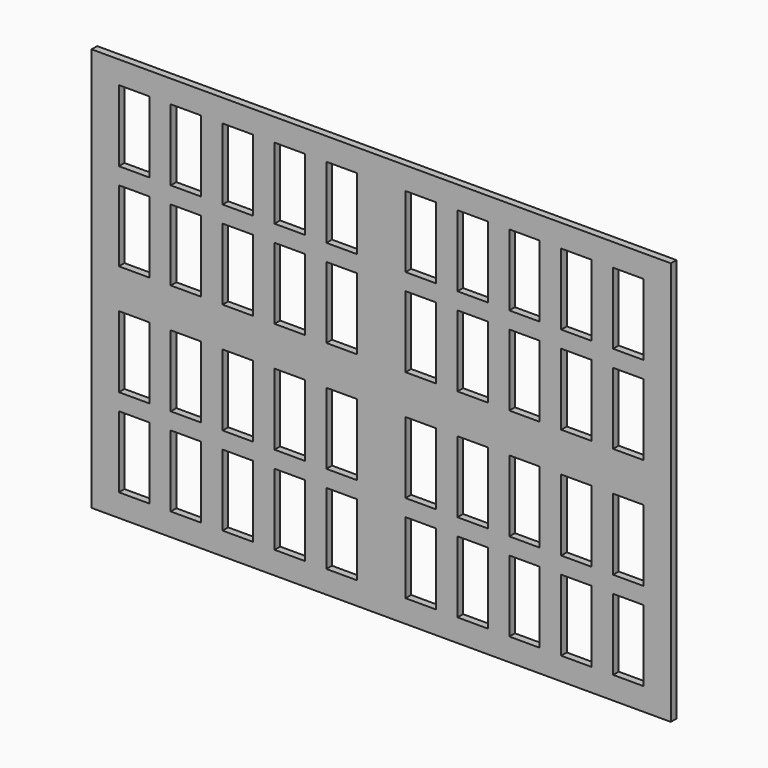
from build123d import *

# Parameters (mm, degrees)
F0_W     = 26
F0_H     = 61
F1_DEPTH = 6


with BuildPart() as f1:
    # F0 (on Front) → F1 (new body)
    with BuildSketch(Plane.XZ):
        Polygon((-231.5, -176.5), (223.5, -176.5), (243.5, -176.5), (243.5, -156.5), (243.5, 148.5), (243.5, 168.5), (227.5, 168.5), (-227.5, 168.5), (-251.5, 168.5), (-251.5, 152.5), (-251.5, -152.5), (-251.5, -176.5), align=None)
        with Locations((-215.17, -126.66)):
            Rectangle(F0_W, F0_H, mode=Mode.SUBTRACT)
        with Locations((-170.84, -126.66)):
            Rectangle(F0_W, F0_H, mode=Mode.SUBTRACT)
        with Locations((-126.51, -126.66)):
            Rectangle(F0_W, F0_H, mode=Mode.SUBTRACT)
        with Locations((-82.18, -126.66)):
            Rectangle(F0_W, F0_H, mode=Mode.SUBTRACT)
        with Locations((-37.85, -126.66)):
            Rectangle(F0_W, F0_H, mode=Mode.SUBTRACT)
        with Locations((-215.17, -51.33)):
            Rectangle(F0_W, F0_H, mode=Mode.SUBTRACT)
        with Locations((-170.84, -51.33)):
            Rectangle(F0_W, F0_H, mode=Mode.SUBTRACT)
        with Locations((-126.51, -51.33)):
            Rectangle(F0_W, F0_H, mode=Mode.SUBTRACT)
        with Locations((-82.18, -51.33)):
            Rectangle(F0_W, F0_H, mode=Mode.SUBTRACT)
        with Locations((-37.85, -51.33)):
            Rectangle(F0_W, F0_H, mode=Mode.SUBTRACT)
        with Locations((29.83, -126.66)):
            Rectangle(F0_W, F0_H, mode=Mode.SUBTRACT)
        with Locations((74.16, -126.66)):
            Rectangle(F0_W, F0_H, mode=Mode.SUBTRACT)
        with Locations((118.49, -126.66)):
            Rectangle(F0_W, F0_H, mode=Mode.SUBTRACT)
        with Locations((162.82, -126.66)):
            Rectangle(F0_W, F0_H, mode=Mode.SUBTRACT)
        with Locations((207.15, -126.66)):
            Rectangle(F0_W, F0_H, mode=Mode.SUBTRACT)
        with Locations((29.83, -51.33)):
            Rectangle(F0_W, F0_H, mode=Mode.SUBTRACT)
        with Locations((74.16, -51.33)):
            Rectangle(F0_W, F0_H, mode=Mode.SUBTRACT)
        with Locations((118.49, -51.33)):
            Rectangle(F0_W, F0_H, mode=Mode.SUBTRACT)
        with Locations((162.82, -51.33)):
            Rectangle(F0_W, F0_H, mode=Mode.SUBTRACT)
        with Locations((207.15, -51.33)):
            Rectangle(F0_W, F0_H, mode=Mode.SUBTRACT)
        with Locations((-215.17, 43.34)):
            Rectangle(F0_W, F0_H, mode=Mode.SUBTRACT)
        with Locations((-170.84, 43.34)):
            Rectangle(F0_W, F0_H, mode=Mode.SUBTRACT)
        with Locations((-126.51, 43.34)):
            Rectangle(F0_W, F0_H, mode=Mode.SUBTRACT)
        with Locations((-82.18, 43.34)):
            Rectangle(F0_W, F0_H, mode=Mode.SUBTRACT)
        with Locations((-37.85, 43.34)):
            Rectangle(F0_W, F0_H, mode=Mode.SUBTRACT)
        with Locations((-215.17, 118.67)):
            Rectangle(F0_W, F0_H, mode=Mode.SUBTRACT)
        with Locations((-170.84, 118.67)):
            Rectangle(F0_W, F0_H, mode=Mode.SUBTRACT)
        with Locations((-126.51, 118.67)):
            Rectangle(F0_W, F0_H, mode=Mode.SUBTRACT)
        with Locations((-82.18, 118.67)):
            Rectangle(F0_W, F0_H, mode=Mode.SUBTRACT)
        with Locations((-37.85, 118.67)):
            Rectangle(F0_W, F0_H, mode=Mode.SUBTRACT)
        with Locations((29.83, 43.34)):
            Rectangle(F0_W, F0_H, mode=Mode.SUBTRACT)
        with Locations((74.16, 43.34)):
            Rectangle(F0_W, F0_H, mode=Mode.SUBTRACT)
        with Locations((118.49, 43.34)):
            Rectangle(F0_W, F0_H, mode=Mode.SUBTRACT)
        with Locations((162.82, 43.34)):
            Rectangle(F0_W, F0_H, mode=Mode.SUBTRACT)
        with Locations((207.15, 43.34)):
            Rectangle(F0_W, F0_H, mode=Mode.SUBTRACT)
        with Locations((29.83, 118.67)):
            Rectangle(F0_W, F0_H, mode=Mode.SUBTRACT)
        with Locations((74.16, 118.67)):
            Rectangle(F0_W, F0_H, mode=Mode.SUBTRACT)
        with Locations((118.49, 118.67)):
            Rectangle(F0_W, F0_H, mode=Mode.SUBTRACT)
        with Locations((162.82, 118.67)):
            Rectangle(F0_W, F0_H, mode=Mode.SUBTRACT)
        with Locations((207.15, 118.67)):
            Rectangle(F0_W, F0_H, mode=Mode.SUBTRACT)
    extrude(amount=F1_DEPTH)


solid = f1.part
